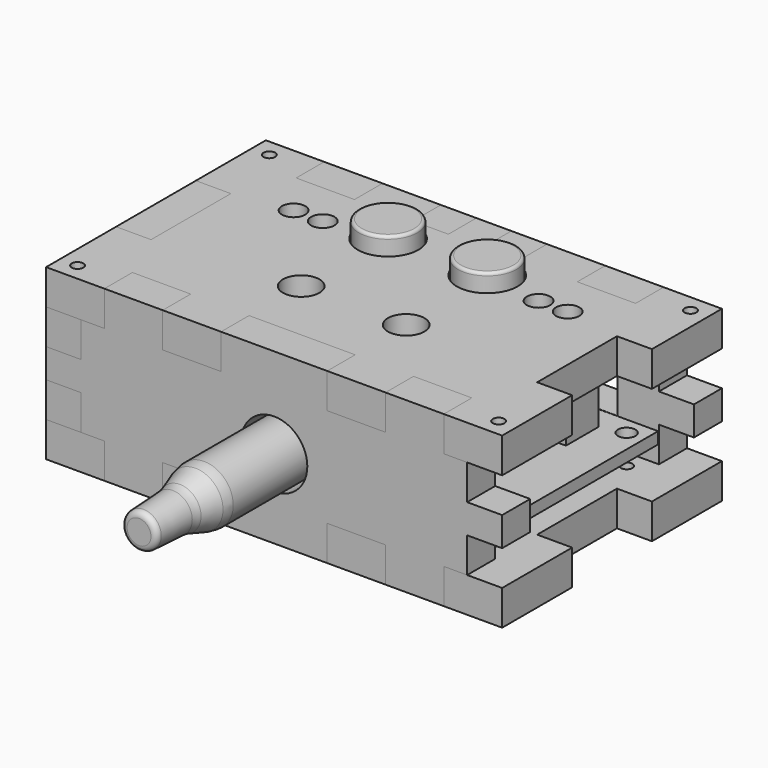
from build123d import *

# Parameters (mm, degrees)
F0_W      = 66
F0_H      = 35
F0_R      = 1.5
F1_DEPTH  = 2
F2_R      = 5
F3_DEPTH  = 21
F4_R      = 2.9320569712
F5_DEPTH  = 12
F6_W      = 10
F6_H      = 7
F7_DEPTH  = 10
F8_R      = 1.5
F9_DEPTH  = 3
F11_DEPTH = 5
F15_R     = 0.5
F17_R     = 1
F17_R_2   = 3.1320569712
F17_R_3   = 2
F17_R_4   = 5.2
F18_DEPTH = 6
F19_W     = 6
F19_H     = 6
F19_R     = 1.6
F20_DEPTH = 3
F21_R     = 1
F22_DEPTH = 6
F24_DEPTH = 6
F26_R     = 5.6901699437
F27_DEPTH = 6
F25_W     = 10
F25_H     = 6
F28_DEPTH = 6


with BuildPart() as f1:
    # F0 (on Top) → F1 (new body)
    with BuildSketch(Plane.XY):
        Rectangle(F0_W, F0_H)
        with Locations((-30, -14.5)):
            Circle(F0_R, mode=Mode.SUBTRACT)
        with Locations((30, -14.5)):
            Circle(F0_R, mode=Mode.SUBTRACT)
        with Locations((-30, 14.5)):
            Circle(F0_R, mode=Mode.SUBTRACT)
        with Locations((0, 13)):
            Circle(F0_R, mode=Mode.SUBTRACT)
        with Locations((30, 14.5)):
            Circle(F0_R, mode=Mode.SUBTRACT)
    extrude(amount=F1_DEPTH)

    # F2 (on face) → F3 (join)
    with BuildSketch(Plane.XY.offset(2)):
        with Locations((-8.5, 11.5)):
            Circle(F2_R)
        with Locations((8.5, 11.5)):
            Circle(F2_R)
    extrude(amount=F3_DEPTH)

    # F4 (on face) → F5 (join)
    with BuildSketch(Plane.XY.offset(2)):
        with Locations((-9, -6.5)):
            Circle(F4_R)
        with Locations((9, -6.5)):
            Circle(F4_R)
    extrude(amount=F5_DEPTH)

    # F6 (on face) → F7 (join)
    with BuildSketch(Plane.XY.offset(2)):
        with Locations((-21, 10)):
            Rectangle(F6_W, F6_H)
        with Locations((21, 10)):
            Rectangle(F6_W, F6_H)
    extrude(amount=F7_DEPTH)

    # F8 (on face) → F9 (cut)
    with BuildSketch(Plane.XY.offset(12)):
        with Locations((-23.5, 10)):
            Circle(F8_R)
        with Locations((-18.5, 10)):
            Circle(F8_R)
        with Locations((23.5, 10)):
            Circle(F8_R)
        with Locations((18.5, 10)):
            Circle(F8_R)
    extrude(amount=-F9_DEPTH, mode=Mode.SUBTRACT)

    # F10 (on face) → F11 (join)
    with BuildSketch(Plane.XY.offset(2)):
        Polygon((5, -17.5), (6, -17.5), (6, -6.5), (-6, -6.5), (-6, -17.5), (-5, -17.5), (-5, -18.5), (5, -18.5), align=None)
    extrude(amount=F11_DEPTH)

    # F13 (on offset) → F14 (revolve)
    with BuildSketch(Plane.XY.offset(4.5)):
        with BuildLine():
            Line((3, -18.5), (0, -18.5))
            Line((0, -18.5), (0, -52.5))
            Line((0, -52.5), (2.0479530691, -52.5))
            ThreePointArc((2.0479530691, -52.5), (2.737481375, -52.2242587351), (3.0467468664, -51.5491014307))
            Line((3.0467468664, -51.5491014307), (3.3544998723, -45.2889621879))
            ThreePointArc((3.3544998723, -45.2889621879), (3.4442229254, -44.5092700982), (3.6349486249, -43.7479595908))
            Line((3.6349486249, -43.7479595908), (4.7123140311, -40.3952618142))
            ThreePointArc((4.7123140311, -40.3952618142), (4.9276422036, -39.488659732), (5, -38.5596506327))
            Line((5, -38.5596506327), (5, -20.25))
            ThreePointArc((5, -20.25), (4.7803300859, -19.7196699141), (4.25, -19.5))
            Line((4.25, -19.5), (3, -19.5))
            Line((3, -19.5), (3, -18.5))
        make_face()
    revolve(axis=Axis((0, -35.5, 4.5), (0, 1, 0)))

    # F15
    f15_edges = [f1.edges().sort_by_distance(p)[0] for p in [
        (-13.5, 11.5, 23),
        (3.5, 11.5, 23),
        (-11.932057, -6.5, 14),
        (6.067943, -6.5, 14),
    ]]
    fillet(f15_edges, radius=F15_R)


with BuildPart() as f18:
    # F17 (on face) → F18 (new body)
    with BuildSketch(Plane.XY.offset(14)):
        Polygon((-29.1, 23.55), (-39.1, 23.55), (-39.1, 8.55), (-33.1, 8.55), (-33.1, 0), (-33.1, -8.55), (-39.1, -8.55), (-39.1, -23.55), (-29.1, -23.55), (-29.1, -17.55), (-19.1, -17.55), (-19.1, -23.55), (-9.1, -23.55), (-9.1, -17.55), (0, -17.55), (9.1, -17.55), (9.1, -23.55), (19.1, -23.55), (19.1, -17.55), (29.1, -17.55), (29.1, -23.55), (39.1, -23.55), (39.1, -8.55), (33.1, -8.55), (33.1, 0), (33.1, 8.55), (39.1, 8.55), (39.1, 23.55), (29.1, 23.55), (29.1, 17.55), (19.1, 17.55), (19.1, 23.55), (9.1, 23.55), (9.1, 17.55), (3, 17.55), (0, 17.55), (-3, 17.55), (-9.1, 17.55), (-9.1, 23.55), (-19.1, 23.55), (-19.1, 17.55), (-29.1, 17.55), align=None)
        with Locations((-36.1, -20.55)):
            Circle(F17_R, mode=Mode.SUBTRACT)
        with Locations((-9, -6.5)):
            Circle(F17_R_2, mode=Mode.SUBTRACT)
        with Locations((36.1, -20.55)):
            Circle(F17_R, mode=Mode.SUBTRACT)
        with Locations((9, -6.5)):
            Circle(F17_R_2, mode=Mode.SUBTRACT)
        with Locations((-23.5, 10)):
            Circle(F17_R_3, mode=Mode.SUBTRACT)
        with Locations((-18.5, 10)):
            Circle(F17_R_3, mode=Mode.SUBTRACT)
        with Locations((-8.5, 11.5)):
            Circle(F17_R_4, mode=Mode.SUBTRACT)
        with Locations((-36.1, 20.55)):
            Circle(F17_R, mode=Mode.SUBTRACT)
        with Locations((8.5, 11.5)):
            Circle(F17_R_4, mode=Mode.SUBTRACT)
        with Locations((18.5, 10)):
            Circle(F17_R_3, mode=Mode.SUBTRACT)
        with Locations((23.5, 10)):
            Circle(F17_R_3, mode=Mode.SUBTRACT)
        with Locations((36.1, 20.55)):
            Circle(F17_R, mode=Mode.SUBTRACT)
        Polygon((-3, 23.55), (-3, 17.55), (0, 17.55), (3, 17.55), (3, 23.55), align=None)
    extrude(amount=F18_DEPTH)


with BuildPart() as f20:
    # F19 (on face) → F20 (new body)
    with BuildSketch(Plane(origin=(0, 0, 0), x_dir=(1, 0, 0), z_dir=(0, 0, -1))):
        with Locations((-30, 14.5)):
            Rectangle(F19_W, F19_H)
        with Locations((-30, 14.5)):
            Circle(F19_R, mode=Mode.SUBTRACT)
    extrude(amount=F20_DEPTH)


with BuildPart() as f22:
    # F21 (on face) → F22 (new body)
    with BuildSketch(Plane(origin=(0, 0, -3), x_dir=(1, 0, 0), z_dir=(0, 0, -1))):
        Polygon((-29.1, 23.55), (-39.1, 23.55), (-39.1, 8.55), (-33.1, 8.55), (-33.1, 0), (-33.1, -8.55), (-39.1, -8.55), (-39.1, -23.55), (-29.1, -23.55), (-29.1, -17.55), (-19.1, -17.55), (-19.1, -23.55), (-9.1, -23.55), (-9.1, -17.55), (0, -17.55), (9.1, -17.55), (9.1, -23.55), (19.1, -23.55), (19.1, -17.55), (29.1, -17.55), (29.1, -23.55), (39.1, -23.55), (39.1, -8.55), (33.1, -8.55), (33.1, 0), (33.1, 8.55), (39.1, 8.55), (39.1, 23.55), (29.1, 23.55), (29.1, 17.55), (19.1, 17.55), (19.1, 23.55), (9.1, 23.55), (9.1, 17.55), (0, 17.55), (-9.1, 17.55), (-9.1, 23.55), (-19.1, 23.55), (-19.1, 17.55), (-29.1, 17.55), align=None)
        with Locations((-30, -14.5)):
            Circle(F21_R, mode=Mode.SUBTRACT)
        with Locations((30, -14.5)):
            Circle(F21_R, mode=Mode.SUBTRACT)
        with Locations((-30, 14.5)):
            Circle(F21_R, mode=Mode.SUBTRACT)
        with Locations((30, 14.5)):
            Circle(F21_R, mode=Mode.SUBTRACT)
    extrude(amount=F22_DEPTH)


with BuildPart() as f24:
    # F23 (on face) → F24 (new body)
    with BuildSketch(Plane(origin=(-33.1, 0, 0), x_dir=(0, -1, 0), z_dir=(-1, 0, 0))):
        Polygon((-8.55, 14), (-23.55, 14), (-23.55, 8), (-17.55, 8), (-17.55, 3), (-23.55, 3), (-23.55, -3), (-8.55, -3), (-8.55, -9), (8.55, -9), (8.55, -3), (23.55, -3), (23.55, 3), (17.55, 3), (17.55, 8), (23.55, 8), (23.55, 14), (8.55, 14), (8.55, 20), (-8.55, 20), align=None)
    extrude(amount=F24_DEPTH)


with BuildPart() as f27:
    # F26 (on face) → F27 (new body)
    with BuildSketch(Plane.XZ.offset(17.55)):
        Polygon((-29.1, 14), (-33.1, 14), (-33.1, 8), (-39.1, 8), (-39.1, 3), (-33.1, 3), (-33.1, -3), (-29.1, -3), (-29.1, -9), (-19.1, -9), (-19.1, -3), (-9.1, -3), (-9.1, -9), (9.1, -9), (9.1, -3), (19.1, -3), (19.1, -9), (29.1, -9), (29.1, -3), (33.1, -3), (33.1, 3), (39.1, 3), (39.1, 8), (33.1, 8), (33.1, 14), (29.1, 14), (29.1, 20), (19.1, 20), (19.1, 14), (9.1, 14), (9.1, 20), (-9.1, 20), (-9.1, 14), (-19.1, 14), (-19.1, 20), (-29.1, 20), align=None)
        with Locations((0, 4.5)):
            Circle(F26_R, mode=Mode.SUBTRACT)
    extrude(amount=F27_DEPTH)


with BuildPart() as f28:
    # F25 (on face) → F28 (new body)
    with BuildSketch(Plane(origin=(0, 17.55, 0), x_dir=(-1, 0, 0), z_dir=(0, 1, 0))):
        with BuildLine():
            Line((-29.1, 14), (-33.1, 14))
            Line((-33.1, 14), (-33.1, 8))
            Line((-33.1, 8), (-39.1, 8))
            Line((-39.1, 8), (-39.1, 3))
            Line((-39.1, 3), (-33.1, 3))
            Line((-33.1, 3), (-33.1, -3))
            Line((-33.1, -3), (-29.1, -3))
            Line((-29.1, -3), (-29.1, -9))
            Line((-29.1, -9), (-19.1, -9))
            Line((-19.1, -9), (-19.1, -3))
            Line((-19.1, -3), (-9.1, -3))
            Line((-9.1, -3), (-9.1, -9))
            Line((-9.1, -9), (9.1, -9))
            Line((9.1, -9), (9.1, -3))
            Line((9.1, -3), (19.1, -3))
            Line((19.1, -3), (19.1, -9))
            Line((19.1, -9), (29.1, -9))
            Line((29.1, -9), (29.1, -3))
            Line((29.1, -3), (33.1, -3))
            Line((33.1, -3), (33.1, 3))
            Line((33.1, 3), (39.1, 3))
            Line((39.1, 3), (39.1, 8))
            Line((39.1, 8), (33.1, 8))
            Line((33.1, 8), (33.1, 14))
            Line((33.1, 14), (29.1, 14))
            Line((29.1, 14), (29.1, 20))
            Line((29.1, 20), (19.1, 20))
            Line((19.1, 20), (19.1, 14))
            Line((19.1, 14), (9.1, 14))
            Line((9.1, 14), (9.1, 20))
            Line((9.1, 20), (3, 20))
            Line((3, 20), (3, 12.5))
            ThreePointArc((3, 12.5), (2.5606601718, 11.4393398282), (1.5, 11))
            Line((1.5, 11), (-1.5, 11))
            ThreePointArc((-1.5, 11), (-2.5606601718, 11.4393398282), (-3, 12.5))
            Line((-3, 12.5), (-3, 20))
            Line((-3, 20), (-9.1, 20))
            Line((-9.1, 20), (-9.1, 14))
            Line((-9.1, 14), (-19.1, 14))
            Line((-19.1, 14), (-19.1, 20))
            Line((-19.1, 20), (-29.1, 20))
            Line((-29.1, 20), (-29.1, 14))
        make_face()
        with Locations((-21, 5)):
            Rectangle(F25_W, F25_H, mode=Mode.SUBTRACT)
        with Locations((21, 5)):
            Rectangle(F25_W, F25_H, mode=Mode.SUBTRACT)
    extrude(amount=F28_DEPTH)


solid = Compound([f1.part, f18.part, f20.part, f22.part, f24.part, f27.part, f28.part])
